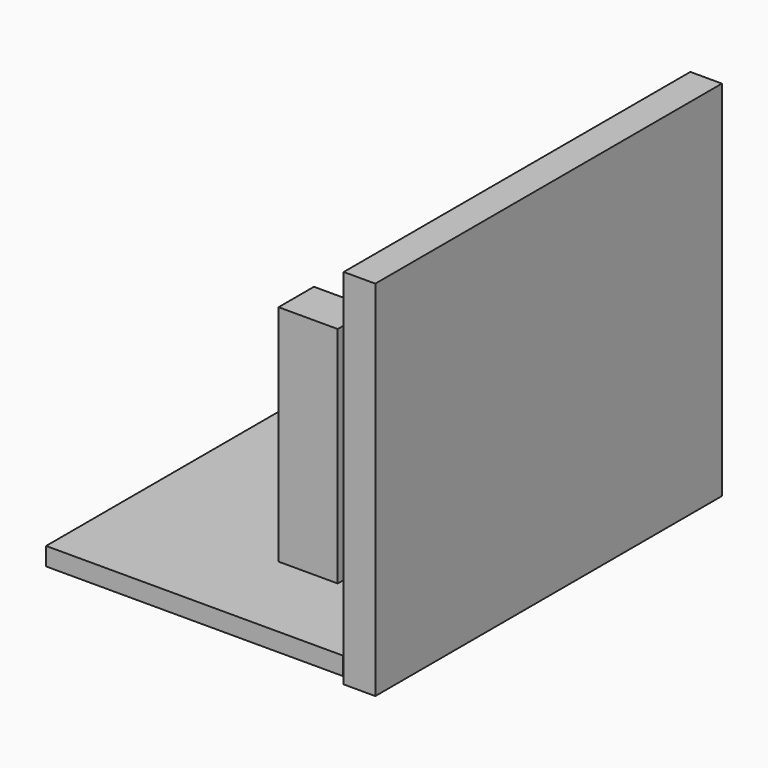
from build123d import *

# Parameters (mm, degrees)
F0_W     = 24.9655246735
F0_H     = 18.6489485204
F1_DEPTH = 25.4
F2_W     = 24.9655246735
F2_H     = 18.6489485204
F3_DEPTH = 69.088
F4_W     = 24.9655246735
F4_H     = 18.6489485204
F5_DEPTH = 7.62
F4_W_2   = 13.3254788816
F4_H_2   = 182.7494688332
F6_DEPTH = 10.922
F7_DEPTH = 131.318


with BuildPart() as f1:
    # F0 (on Top) → F1 (new body)
    with BuildSketch(Plane.XY):
        with Locations((0.7519731298, 1.203157939)):
            Rectangle(F0_W, F0_H)
    extrude(amount=F1_DEPTH)

    # F2 (on face) → F3 (join)
    with BuildSketch(Plane(origin=(0, 0, 0), x_dir=(1, 0, 0), z_dir=(0, 0, -1))):
        with Locations((0.7519731298, -1.203157939)):
            Rectangle(F2_W, F2_H)
    extrude(amount=F3_DEPTH)

    # F4 (on face) → F5 (join)
    with BuildSketch(Plane(origin=(0, 0, -69.088), x_dir=(1, 0, 0), z_dir=(0, 0, -1))):
        Polygon((46.6391891241, 47.2034774721), (-78.5251632333, 47.2034774721), (-78.5251632333, -136.0218971968), (46.6391891241, -136.0218971968), (46.6391891241, 46.7275716364), align=None)
        with Locations((0.7519731298, -1.203157939)):
            Rectangle(F4_W, F4_H, mode=Mode.SUBTRACT)
        with Locations((0.7519731298, -1.203157939)):
            Rectangle(F4_W, F4_H)
    extrude(amount=F5_DEPTH)

    # F4 (on face) → F6 (join, symmetric)
    with BuildSketch(Plane(origin=(0, 0, -69.088), x_dir=(1, 0, 0), z_dir=(0, 0, -1))):
        with Locations((53.3019285649, -44.6471627802)):
            Rectangle(F4_W_2, F4_H_2)
    extrude(amount=F6_DEPTH, both=True)

    # F7 (add): a face of the model
    f7_faces = [f1.faces().sort_by_distance(p)[0] for p in [
        (53.3019285649, 44.6471627802, -58.166),
    ]]
    extrude(f7_faces, amount=F7_DEPTH)


solid = f1.part
